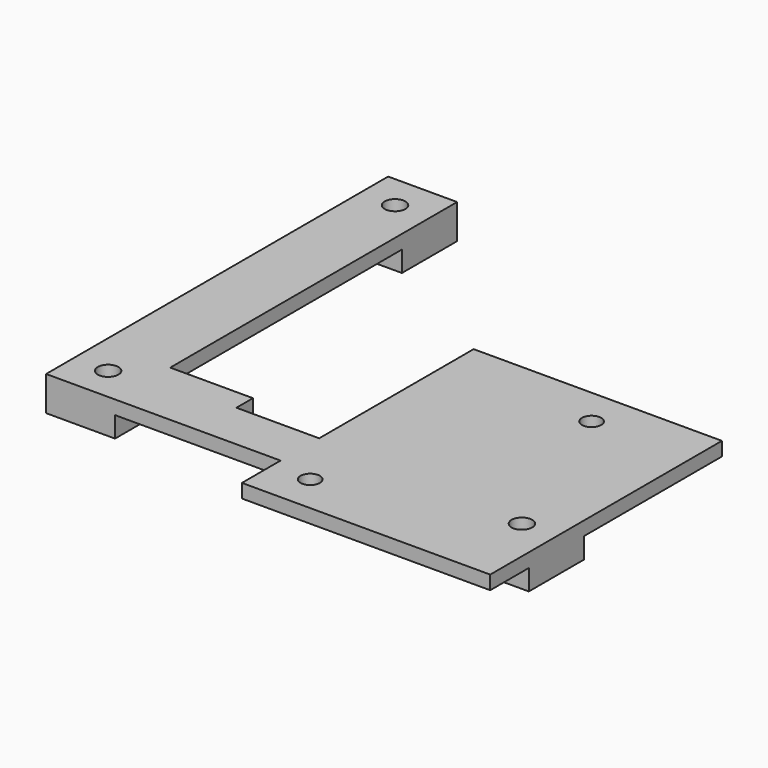
from build123d import *

# Parameters (mm, degrees)
F1_DEPTH = 2
F2_W     = 10
F2_H     = 10
F3_DEPTH = 3
F4_R     = 1.5
F4_R_2   = 1.4
F5_DEPTH = 5


with BuildPart() as f1:
    # F0 (on Top) → F1 (new body)
    with BuildSketch(Plane.XY):
        Polygon((-52.435034, 59.411056), (-62.435034, 59.411056), (-62.435034, -2.588944), (-28.435034, -2.588944), (-28.435034, -9.588944), (7.564966, -9.588944), (7.564966, 32.411056), (-28.435034, 32.411056), (-28.435034, 4.411056), (-40.435034, 4.411056), (-40.435034, 7.411056), (-52.435034, 7.411056), align=None)
    extrude(amount=F1_DEPTH)

    # F2 (on face) → F3 (join)
    with BuildSketch(Plane(origin=(0, 0, 0), x_dir=(1, 0, 0), z_dir=(0, 0, -1))):
        with Locations((-57.435034, -54.411056)):
            Rectangle(F2_W, F2_H)
        with Locations((-57.435034, -2.411056)):
            Rectangle(F2_W, F2_H)
        with Locations((2.564966, -2.411056)):
            Rectangle(F2_W, F2_H)
    extrude(amount=F3_DEPTH)

    # F4 (on face) → F5 (cut)
    with BuildSketch(Plane.XY.offset(2)):
        with Locations((-57.435034, 54.411056)):
            Circle(F4_R)
        with Locations((-57.435034, 2.411056)):
            Circle(F4_R)
        with Locations((2.564966, 2.411056)):
            Circle(F4_R)
        with Locations((-6.935034, 26.911056)):
            Circle(F4_R_2)
        with Locations((-22.935034, -4.088944)):
            Circle(F4_R_2)
    extrude(amount=-F5_DEPTH, mode=Mode.SUBTRACT)


solid = f1.part
